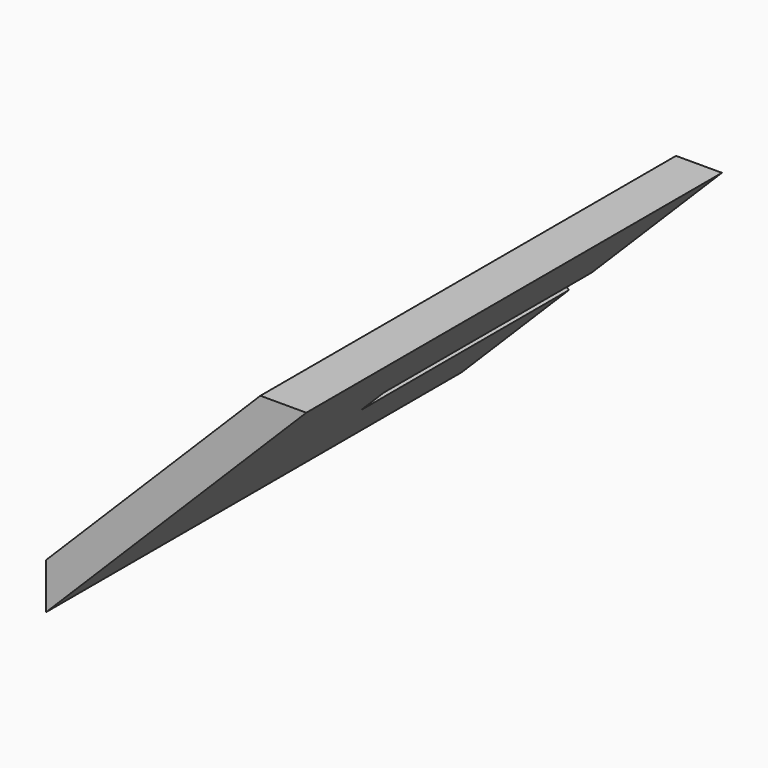
from build123d import *

# Parameters (mm, degrees)
F1_DEPTH = 152.4
F2_W     = 152.4
F2_H     = 19.05
F3_DEPTH = 19.05


with BuildPart() as f1:
    # F0 (on Front) → F1 (new body, symmetric)
    with BuildSketch(Plane.XZ):
        Polygon((-421.5234547212, 26.9407683632), (-421.5234547212, 0), (-268.859100663, 152.6643540582), (-295.7998690262, 152.6643540582), align=None)
    extrude(amount=F1_DEPTH, both=True)

    # F2 (on face) → F3 (cut)
    with BuildSketch(Plane(origin=(-224.2321115422, 0, 224.2321115422), x_dir=(0, -1, 0), z_dir=(-0.7071067812, 0, 0.7071067812))):
        with Locations((-76.2, -199.6370932625)):
            Rectangle(F2_W, F2_H)
    extrude(amount=-F3_DEPTH, mode=Mode.SUBTRACT)


solid = f1.part
